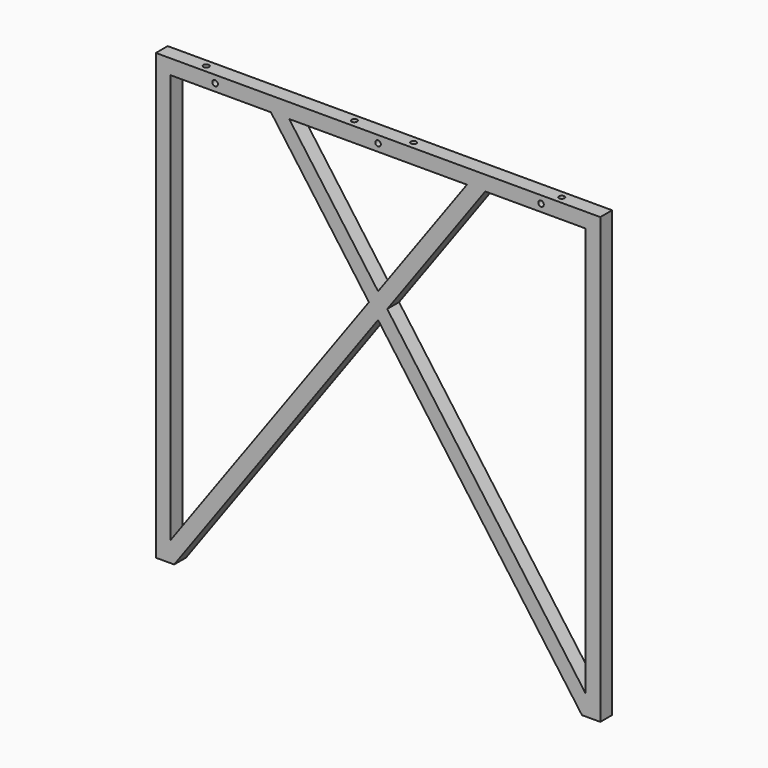
from build123d import *

# Parameters (mm, degrees)
F1_DEPTH = 25.4
F2_R     = 4.7625
F3_DEPTH = 25.4
F4_R     = 4.7625
F5_DEPTH = 25.4


with BuildPart() as f1:
    # F0 (on Front) → F1 (new body)
    with BuildSketch(Plane.XZ):
        Polygon((381, 762), (-381, 762), (-381, 0), (-349.639734, 0), (0, 482.835824), (349.639734, 0), (381, 0), align=None)
        Polygon((-355.6, 35.07619), (-355.6, 736.6), (-183.760266, 736.6), (-15.680133, 504.48934), align=None, mode=Mode.SUBTRACT)
        Polygon((183.760266, 736.6), (355.6, 736.6), (355.6, 35.07619), (15.680133, 504.48934), align=None, mode=Mode.SUBTRACT)
        Polygon((0, 526.142857), (-152.4, 736.6), (152.4, 736.6), align=None, mode=Mode.SUBTRACT)
    extrude(amount=F1_DEPTH)

    # F2 (on face) → F3 (cut)
    with BuildSketch(Plane.XZ.offset(25.4)):
        with Locations((-279.4, 749.3)):
            Circle(F2_R)
        with Locations((0, 749.3)):
            Circle(F2_R)
        with Locations((279.4, 749.3)):
            Circle(F2_R)
    extrude(amount=-F3_DEPTH, mode=Mode.SUBTRACT)

    # F4 (on face) → F5 (cut)
    with BuildSketch(Plane.XY.offset(762)):
        with Locations((-50.8, -12.7)):
            Circle(F4_R)
        with Locations((50.8, -12.7)):
            Circle(F4_R)
        with Locations((304.8, -12.7)):
            Circle(F4_R)
        with Locations((-304.8, -12.7)):
            Circle(F4_R)
    extrude(amount=-F5_DEPTH, mode=Mode.SUBTRACT)


solid = f1.part
